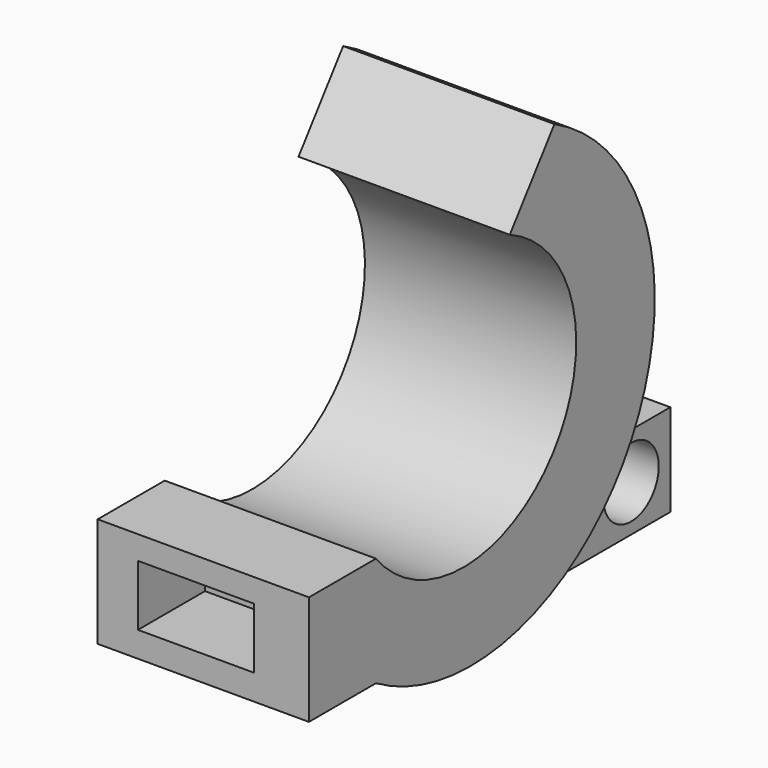
from build123d import *

# Parameters (mm, degrees)
F1_DEPTH = 15.494
F2_W     = 6.349988
F2_H     = 6.764519
F3_DEPTH = 13.208
F5_D     = 5.08
F6_W     = 15.494
F6_H     = 8.044068
F6_W_2   = 8.525903
F6_H_2   = 4.456614
F7_DEPTH = 6.1468


with BuildPart() as f1:
    # F0 (on Right) → F1 (new body)
    with BuildSketch(Plane.YZ):
        with BuildLine():
            ThreePointArc((-16.356304, 15.922897), (-12.415087, 0.19965), (-28.623536, 0))
            Line((-28.623536, 0), (-28.623536, -8.044068))
            ThreePointArc((-28.623536, -8.044068), (-5.189303, -1.794092), (-12.267232, 21.403503))
            Line((-12.267232, 21.403503), (-16.356304, 15.922897))
        make_face()
    extrude(amount=F1_DEPTH)

    # F2 (on Front) → F3 (join)
    with BuildSketch(Plane.XZ):
        with Locations((11.007179, -5.669695)):
            Rectangle(F2_W, F2_H)
    extrude(amount=F3_DEPTH)

    # F5 (through all)
    with Locations(Plane.YZ.offset(14.182173)):
        with Locations((-3.603312, -5.669695)):
            Hole(F5_D / 2)

    # F6 (on face) → F7 (join)
    with BuildSketch(Plane.XZ.offset(28.623536)):
        with Locations((7.747, -4.022034)):
            Rectangle(F6_W, F6_H)
        with Locations((7.216052, -3.949209)):
            Rectangle(F6_W_2, F6_H_2, mode=Mode.SUBTRACT)
    extrude(amount=F7_DEPTH)


solid = f1.part
